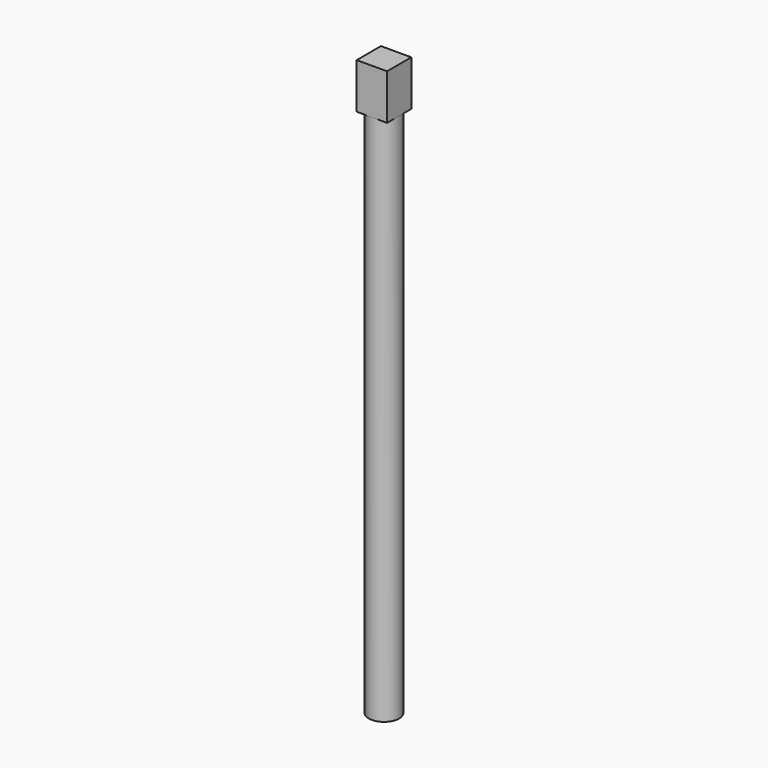
from build123d import *

# Parameters (mm, degrees)
F0_R     = 5
F1_DEPTH = 175
F3_DEPTH = 15


with BuildPart() as f1:
    # F0 (on Top) → F1 (new body)
    with BuildSketch(Plane.XY):
        Circle(F0_R)
    extrude(amount=F1_DEPTH)

    # F2 (on face) → F3 (join)
    with BuildSketch(Plane.XY.offset(175)):
        with BuildLine():
            ThreePointArc((5, 0), (3.535534, 3.535534), (0, 5))
            ThreePointArc((0, 5), (-3.535534, 3.535534), (-5, 0))
            ThreePointArc((-5, 0), (-3.535534, -3.535534), (0, -5))
            ThreePointArc((0, -5), (3.535534, -3.535534), (5, 0))
        make_face()
        with BuildLine():
            Line((5, 0), (5, 5))
            Line((5, 5), (0, 5))
            ThreePointArc((0, 5), (3.535534, 3.535534), (5, 0))
        make_face()
        with BuildLine():
            Line((5, -5), (5, 0))
            ThreePointArc((5, 0), (3.535534, -3.535534), (0, -5))
            Line((0, -5), (5, -5))
        make_face()
        with BuildLine():
            ThreePointArc((0, -5), (-3.535534, -3.535534), (-5, 0))
            Line((-5, 0), (-5, -5))
            Line((-5, -5), (0, -5))
        make_face()
        with BuildLine():
            ThreePointArc((-5, 0), (-3.535534, 3.535534), (0, 5))
            Line((0, 5), (-5, 5))
            Line((-5, 5), (-5, 0))
        make_face()
    extrude(amount=F3_DEPTH)


solid = f1.part
